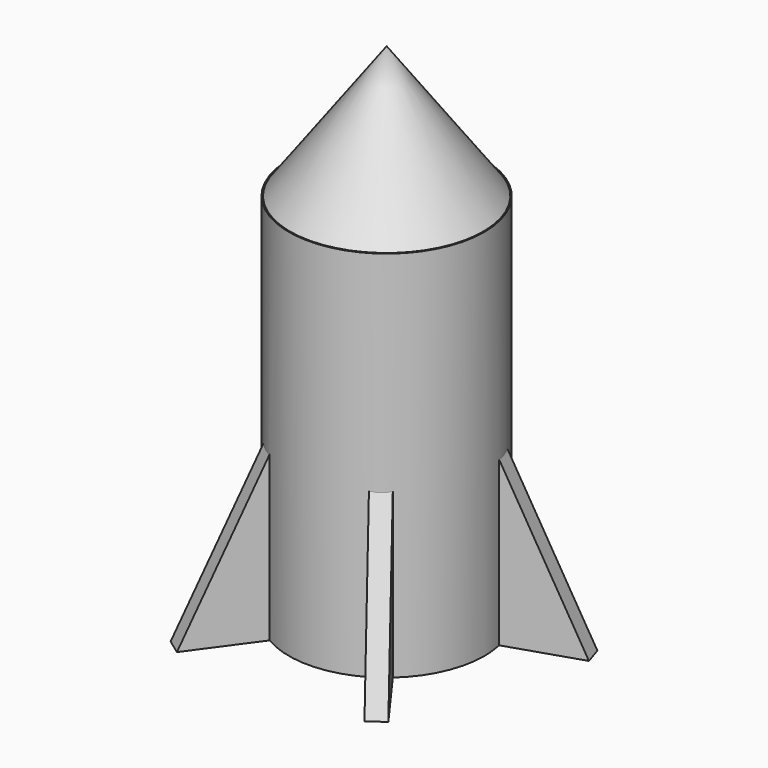
from build123d import *

# Parameters (mm, degrees)
F0_R     = 19.961145
F1_DEPTH = 76.2
F3_DEPTH = 1.905
F4_COUNT = 5


with BuildPart() as f1:
    # F0 (on Top) → F1 (new body)
    with BuildSketch(Plane.XY):
        Circle(F0_R)
    extrude(amount=F1_DEPTH)

    # F2 (on Right) → F3 (join, symmetric)
    with BuildSketch(Plane.YZ):
        Polygon((11.911715, 50.8), (11.911715, 0), (35.1912, 0), align=None)
    extrude(amount=F3_DEPTH, both=True)



with BuildPart() as f4_1:
    # F4: instance of F1
    add(f1.part.rotate(Axis((0, 0, 0), (0, 0, -1)), 1 * 360 / F4_COUNT))


with BuildPart() as f4_2:
    # F4: instance of F1
    add(f1.part.rotate(Axis((0, 0, 0), (0, 0, -1)), 2 * 360 / F4_COUNT))


with BuildPart() as f4_3:
    # F4: instance of F1
    add(f1.part.rotate(Axis((0, 0, 0), (0, 0, -1)), 3 * 360 / F4_COUNT))


with BuildPart() as f4_4:
    # F4: instance of F1
    add(f1.part.rotate(Axis((0, 0, 0), (0, 0, -1)), 4 * 360 / F4_COUNT))


with BuildPart() as f1_1:
    add(f1.part)

    add(f4_1.part)  # F6 merges F4_1

    add(f4_2.part)  # F6 merges F4_2

    add(f4_3.part)  # F6 merges F4_3

    add(f4_4.part)  # F6 merges F4_4
    # F5 (on Right) → F6 (revolve)
    with BuildSketch(Plane.YZ):
        Polygon((-19.869778, 76.00043), (0, 76.300174), (0, 103.126749), align=None)
    revolve(axis=Axis((0, 0, 89.713462), (0, 0, 1)))


solid = f1_1.part
